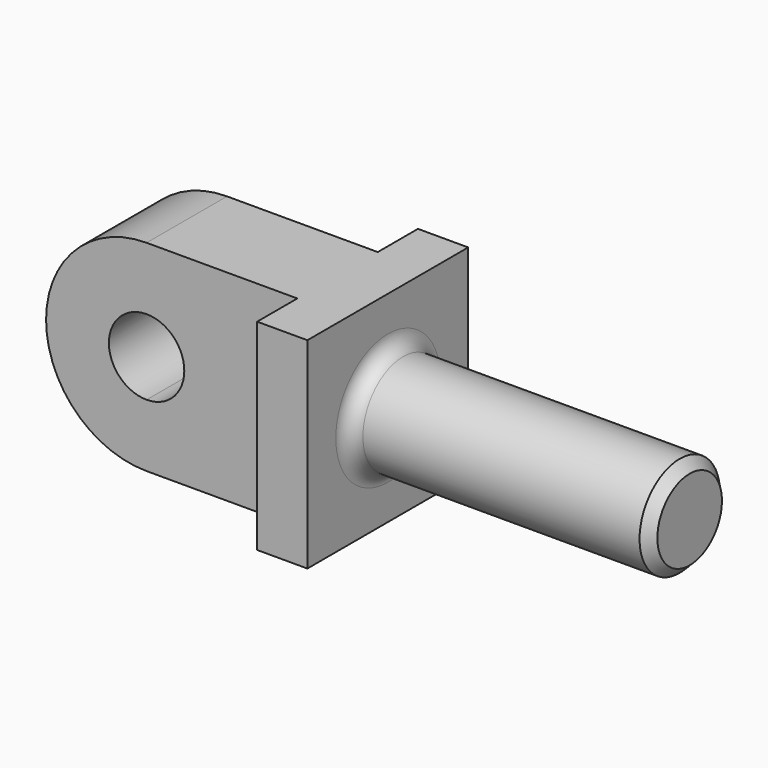
from build123d import *

# Parameters (mm, degrees)
F1_W     = 12.7
F1_H     = 50.8
F2_DEPTH = 25.4
F4_W     = 25.4
F4_H     = 50.8
F5_DEPTH = 38.1
F7_DEPTH = 25.4
F8_DEPTH = 25.4


with BuildPart() as f2:
    # F1 (on Front) → F2 (new body, symmetric)
    with BuildSketch(Plane.XZ):
        with Locations((-6.35, 0)):
            Rectangle(F1_W, F1_H)
    extrude(amount=F2_DEPTH, both=True)

    # F0 (on Front) → F3 (revolve)
    with BuildSketch(Plane.XZ):
        with BuildLine():
            Line((73.785126, 12.7), (3.876444, 12.7))
            ThreePointArc((3.876444, 12.7), (1.182368, 13.815923), (0.066444, 16.51))
            Line((0.066444, 16.51), (0, 0))
            Line((0, 0), (49.949444, 0))
            Line((49.949444, 0), (76.289154, 0))
            Line((76.289154, 0), (76.289154, 10.195972))
            Line((76.289154, 10.195972), (73.785126, 12.7))
        make_face()
    revolve(axis=Axis((-4.930185, 0, 0), (1, 0, 0)))

    # F4 (on face) → F5 (join)
    with BuildSketch(Plane(origin=(-12.7, 0, 0), x_dir=(0, -1, 0), z_dir=(-1, 0, 0))):
        Rectangle(F4_W, F4_H)
    extrude(amount=F5_DEPTH)

    # F6 (on face) → F7 (join)
    with BuildSketch(Plane.XZ.offset(12.7)):
        with BuildLine():
            Line((-50.8, 9.525), (-50.8, 25.4))
            ThreePointArc((-50.8, 25.4), (-76.2, 0), (-50.8, -25.4))
            Line((-50.8, -25.4), (-50.8, -9.525))
            ThreePointArc((-50.8, -9.525), (-60.325, 0), (-50.8, 9.525))
        make_face()
        with BuildLine():
            ThreePointArc((-41.275, 0), (-44.064808, 6.735192), (-50.8, 9.525))
            Line((-50.8, 9.525), (-50.8, -9.525))
            ThreePointArc((-50.8, -9.525), (-44.064808, -6.735192), (-41.275, 0))
        make_face()
    extrude(amount=-F7_DEPTH)

    # F6 (on face) → F8 (cut)
    with BuildSketch(Plane.XZ.offset(12.7)):
        with BuildLine():
            Line((-50.8, -9.525), (-50.8, 9.525))
            ThreePointArc((-50.8, 9.525), (-60.325, 0), (-50.8, -9.525))
        make_face()
        with BuildLine():
            ThreePointArc((-41.275, 0), (-44.064808, 6.735192), (-50.8, 9.525))
            Line((-50.8, 9.525), (-50.8, -9.525))
            ThreePointArc((-50.8, -9.525), (-44.064808, -6.735192), (-41.275, 0))
        make_face()
    extrude(amount=-F8_DEPTH, mode=Mode.SUBTRACT)


solid = f2.part
